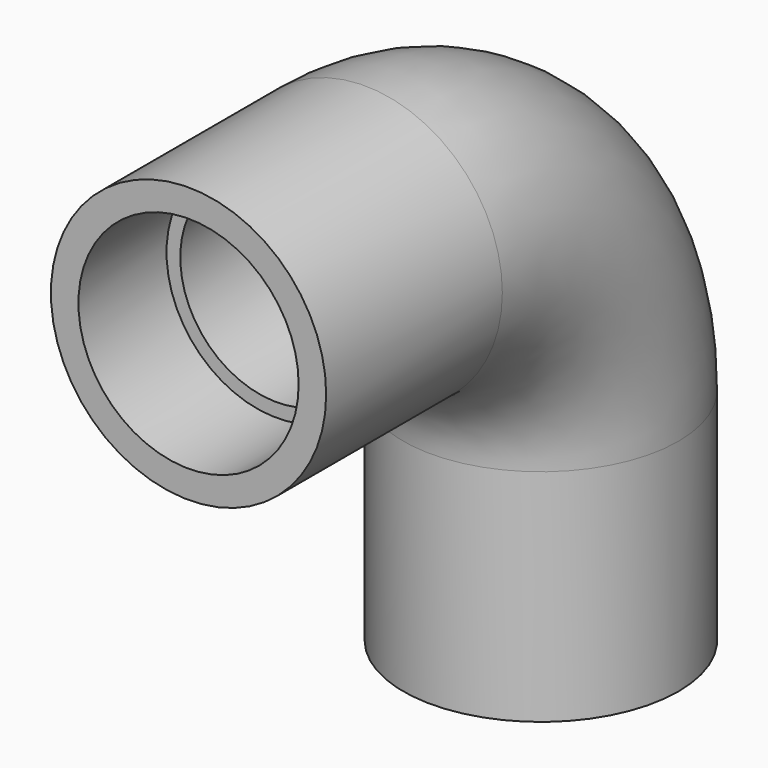
from build123d import *

# Parameters (mm, degrees)
F0_R     = 15.875
F0_R_2   = 11.1125
F3_R     = 12.7
F4_DEPTH = 12.7
F5_R     = 12.7
F6_DEPTH = 12.7


with BuildPart() as f2:
    # F2: sweep along a path in F1
    with BuildLine(Plane.YZ) as f2_path:
        Line((0, 0), (25.4, 0))
        ThreePointArc((25.4, 0), (43.3605122421, -7.4394877579), (50.8, -25.4))
        Line((50.8, -25.4), (50.8, -50.8))
    # F0 (on Front) → F2 (sweep)
    with BuildSketch(Plane.XZ):
        Circle(F0_R)
        Circle(F0_R_2, mode=Mode.SUBTRACT)
    sweep(path=f2_path.line)

    # F3 (on face) → F4 (cut)
    with BuildSketch(Plane.XZ):
        Circle(F3_R)
    extrude(amount=-F4_DEPTH, mode=Mode.SUBTRACT)

    # F5 (on face) → F6 (cut)
    with BuildSketch(Plane(origin=(0, 0, -50.8), x_dir=(1, 0, 0), z_dir=(0, 0, -1))):
        with Locations((0, -50.8)):
            Circle(F5_R)
    extrude(amount=-F6_DEPTH, mode=Mode.SUBTRACT)


solid = f2.part
